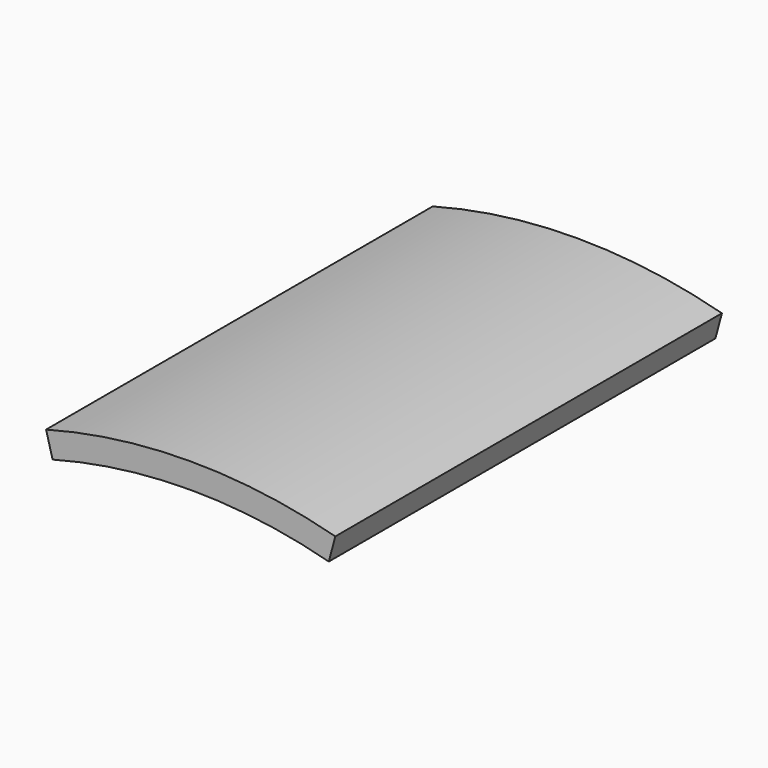
from build123d import *

# Parameters (mm, degrees)
F1_DEPTH = 76.2
F3_DEPTH = 152.4


with BuildPart() as f1:
    # F0 (on Front) → F1 (new body, symmetric)
    with BuildSketch(Plane.XZ):
        Polygon((47.641366, 177.8), (-47.641366, 177.8), (-40.835457, 152.4), (40.835457, 152.4), align=None)
    extrude(amount=F1_DEPTH, both=True)

    # F2 (on face) → F3 (cut, through all)
    with BuildSketch(Plane.XZ.offset(76.2)):
        with BuildLine():
            ThreePointArc((-45.607151, 170.208205), (0, 176.2125), (45.607151, 170.208205))
            Line((45.607151, 170.208205), (47.641366, 177.8))
            Line((47.641366, 177.8), (-47.641366, 177.8))
            Line((-47.641366, 177.8), (-45.607151, 170.208205))
        make_face()
        with BuildLine():
            Line((40.835457, 152.4), (43.552775, 162.541168))
            ThreePointArc((43.552775, 162.541168), (0, 168.275), (-43.552775, 162.541168))
            Line((-43.552775, 162.541168), (-40.835457, 152.4))
            Line((-40.835457, 152.4), (40.835457, 152.4))
        make_face()
    extrude(amount=-F3_DEPTH, mode=Mode.SUBTRACT)


solid = f1.part
